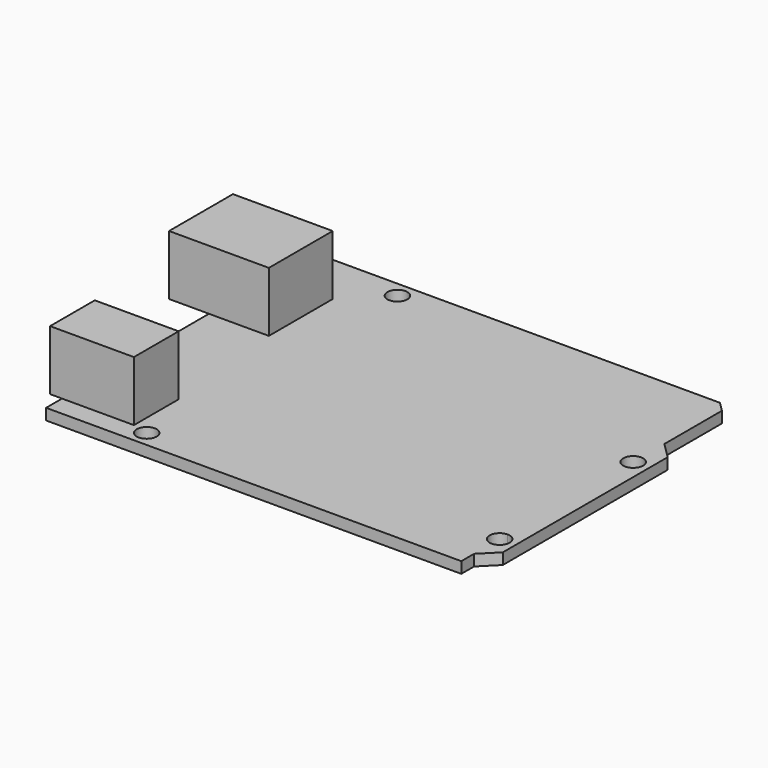
from build123d import *

# Parameters (mm, degrees)
F0_R     = 1.5875
F1_DEPTH = 1.778
F3_DEPTH = 9.525


with BuildPart() as f1:
    # F0 (on Top) → F1 (new body)
    with BuildSketch(Plane.XY):
        with BuildLine():
            Line((0, 53.34), (0, 0))
            Line((0, 0), (66.04, 0))
            Line((66.04, 0), (66.04, 2.54))
            Line((66.04, 2.54), (66.04, 6.0325))
            ThreePointArc((66.04, 6.0325), (64.4525, 7.62), (66.04, 9.2075))
            ThreePointArc((66.04, 9.2075), (67.1625320151, 8.7425320151), (67.6275, 7.62))
            Line((67.6275, 7.62), (68.58, 7.62))
            Line((68.58, 7.62), (68.58, 37.846))
            Line((68.58, 37.846), (66.04, 40.386))
            Line((66.04, 40.386), (66.04, 51.816))
            Line((66.04, 51.816), (64.516, 53.34))
            Line((64.516, 53.34), (0, 53.34))
        make_face()
        with Locations((13.97, 2.54)):
            Circle(F0_R, mode=Mode.SUBTRACT)
        with BuildLine():
            ThreePointArc((13.6525, 50.8), (15.24, 52.3875), (16.8275, 50.8))
            ThreePointArc((16.8275, 50.8), (15.24, 49.2125), (13.6525, 50.8))
        make_face(mode=Mode.SUBTRACT)
        with BuildLine():
            ThreePointArc((67.6275, 34.1701958202), (67.1625320151, 33.0476638051), (66.04, 32.5826958202))
            ThreePointArc((66.04, 32.5826958202), (64.9174679849, 35.2927278354), (67.6275, 34.1701958202))
        make_face(mode=Mode.SUBTRACT)
        with BuildLine():
            Line((66.04, 6.0325), (66.04, 2.54))
            Line((66.04, 2.54), (68.58, 5.08))
            Line((68.58, 5.08), (68.58, 7.62))
            Line((68.58, 7.62), (67.6275, 7.62))
            ThreePointArc((67.6275, 7.62), (67.1625320151, 6.4974679849), (66.04, 6.0325))
        make_face()
    extrude(amount=F1_DEPTH)

    # F2 (on face) → F3 (join)
    with BuildSketch(Plane.XY.offset(1.778)):
        Polygon((0, 32.385), (9.525, 32.385), (9.525, 45.085), (-6.35, 45.085), (-6.35, 32.385), align=None)
        Polygon((0, 3.175), (11.43, 3.175), (11.43, 12.065), (-1.905, 12.065), (-1.905, 3.175), align=None)
    extrude(amount=F3_DEPTH)


solid = f1.part
